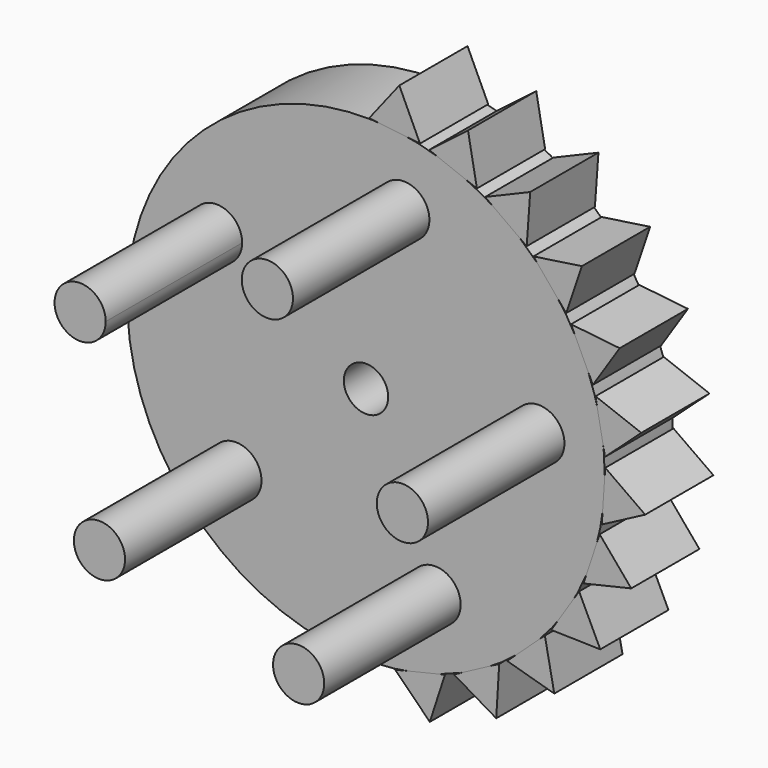
from build123d import *

# Parameters (mm, degrees)
F0_R     = 35.56
F5_DEPTH = 12.7
F3_R     = 3.81
F6_DEPTH = 38.1
F7_R     = 3.302
F8_DEPTH = 25.4


with BuildPart() as f5:
    # F0 (on Front) → F5 (new body)
    with BuildSketch(Plane.XZ):
        Circle(F0_R)
    extrude(amount=F5_DEPTH)

    # F3 (on face) → F6 (join)
    with BuildSketch(Plane.XZ):
        with Locations((5.6246439926, 25.2315048128)):
            Circle(F3_R)
        with BuildLine():
            ThreePointArc((-25.4857693866, 15.1713318157), (-23.3120689257, 9.4848917441), (-18.4484764871, 13.1463181019))
            ThreePointArc((-18.4484764871, 13.1463181019), (-21.2048840486, 16.8077444596), (-25.4857693866, 15.1713318157))
        make_face()
        with Locations((-19.3811389995, -17.106633399)):
            Circle(F3_R)
        with Locations((10.2802738448, -23.7187989755)):
            Circle(F3_R)
        with Locations((25.7346976492, 2.4476094598)):
            Circle(F3_R)
    extrude(amount=F6_DEPTH)

    # F7 (on face) → F8 (cut)
    with BuildSketch(Plane.XZ.offset(12.7)):
        Circle(F7_R)
    extrude(amount=-F8_DEPTH, mode=Mode.SUBTRACT)


with BuildPart() as f5b:
    # F2 (on Front) → F5, piece 2 (new body)
    with BuildSketch(Plane.XZ):
        Polygon((4.952570551, 41.3822282865), (0.4661103748, 35.6425658797), (8.0354463562, 34.7653242932), align=None)
    extrude(amount=F5_DEPTH)


with BuildPart() as f5c:
    # F2 (on Front) → F5, piece 3 (new body)
    with BuildSketch(Plane.XZ):
        Polygon((15.1868975727, 38.8120460055), (9.4027296107, 34.3831126752), (16.5091410856, 31.6329643247), align=None)
    extrude(amount=F5_DEPTH)


with BuildPart() as f5d:
    # F2 (on Front) → F5, piece 4 (new body)
    with BuildSketch(Plane.XZ):
        Polygon((24.4477050164, 33.7539107727), (17.7366094576, 30.9196126482), (23.9245569937, 26.4728491857), align=None)
    extrude(amount=F5_DEPTH)


with BuildPart() as f5e:
    # F2 (on Front) → F5, piece 5 (new body)
    with BuildSketch(Plane.XZ):
        Polygon((32.1413510727, 26.5320621934), (24.9335265727, 25.4740851458), (29.8063466614, 19.6157556584), align=None)
    extrude(amount=F5_DEPTH)


with BuildPart() as f5f:
    # F2 (on Front) → F5, piece 6 (new body)
    with BuildSketch(Plane.XZ):
        Polygon((37.7746530476, 17.6094395183), (30.5321398769, 18.3956026241), (33.777472095, 11.5012412472), align=None)
    extrude(amount=F5_DEPTH)


with BuildPart() as f5g:
    # F2 (on Front) → F5, piece 7 (new body)
    with BuildSketch(Plane.XZ):
        Polygon((40.9865016535, 7.5580060347), (34.1735637168, 10.137914197), (35.5833738401, 2.649467401), align=None)
    extrude(amount=F5_DEPTH)


with BuildPart() as f5h:
    # F2 (on Front) → F5, piece 8 (new body)
    with BuildSketch(Plane.XZ):
        Polygon((41.571009053, -2.9779152655), (35.6243733665, 1.2303591395), (35.1082889047, -6.3721441869), align=None)
    extrude(amount=F5_DEPTH)


with BuildPart() as f5i:
    # F2 (on Front) → F5, piece 9 (new body)
    with BuildSketch(Plane.XZ):
        Polygon((39.4907068037, -13.3229444629), (34.7915681596, -7.7560651342), (32.382671467, -14.9852847826), align=None)
    extrude(amount=F5_DEPTH)


with BuildPart() as f5j:
    # F2 (on Front) → F5, piece 10 (new body)
    with BuildSketch(Plane.XZ):
        Polygon((34.8789476827, -22.8139383177), (31.7285330727, -16.2453054888), (27.5812406837, -22.6378297038), align=None)
    extrude(amount=F5_DEPTH)


with BuildPart() as f5k:
    # F2 (on Front) → F5, piece 11 (new body)
    with BuildSketch(Plane.XZ):
        Polygon((28.0313574274, -30.8424994739), (26.6316166103, -23.693179569), (21.0117807384, -28.8392309459), align=None)
    extrude(amount=F5_DEPTH)


with BuildPart() as f5l:
    # F2 (on Front) → F5, piece 12 (new body)
    with BuildSketch(Plane.XZ):
        Polygon((19.3868843577, -36.8939763094), (19.8275443553, -29.6222593029), (13.0954110759, -33.1919625829), align=None)
    extrude(amount=F5_DEPTH)


with BuildPart() as f5m:
    # F2 (on Front) → F5, piece 13 (new body)
    with BuildSketch(Plane.XZ):
        Polygon((9.499661649, -40.5804534422), (11.7524750109, -33.6524752802), (4.3395915519, -35.417003212), align=None)
    extrude(amount=F5_DEPTH)


solid = Compound([f5.part, f5b.part, f5c.part, f5d.part, f5e.part, f5f.part, f5g.part, f5h.part, f5i.part, f5j.part, f5k.part, f5l.part, f5m.part])
